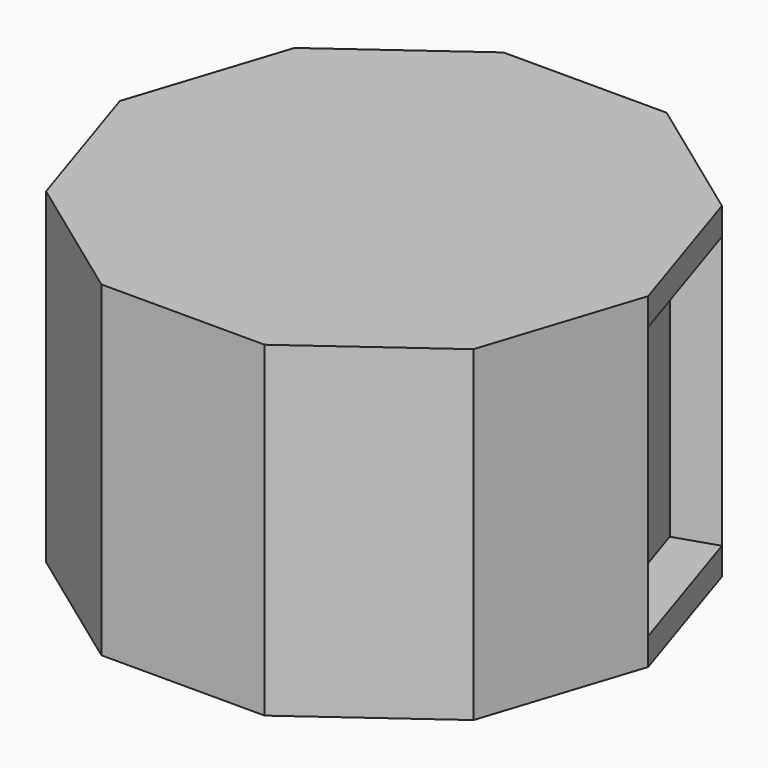
from build123d import *

# Parameters (mm, degrees)
F1_DEPTH = 76.2
F2_R     = 24.13
F3_DEPTH = 33.02
F4_W     = 38.1
F4_H     = 63.5
F5_DEPTH = 10.16


with BuildPart() as f1:
    # F0 (on Top) → F1 (new body)
    with BuildSketch(Plane.XY):
        Polygon((19.05, 58.6298713832), (-19.05, 58.6298713832), (-49.8735474857, 36.2352532708), (-61.6470949714, 0), (-49.8735474857, -36.2352532708), (-19.05, -58.6298713832), (19.05, -58.6298713832), (49.8735474857, -36.2352532708), (61.6470949714, 0), (49.8735474857, 36.2352532708), align=None)
    extrude(amount=F1_DEPTH)

    # F2 (on face) → F3 (cut)
    with BuildSketch(Plane(origin=(0, 0, 0), x_dir=(1, 0, 0), z_dir=(0, 0, -1))):
        Circle(F2_R)
    extrude(amount=-F3_DEPTH, mode=Mode.SUBTRACT)

    # F4 (on face) → F5 (cut)
    with BuildSketch(Plane(origin=(55.7603212285, 18.1176266354, 0), x_dir=(-0.3090169944, 0.9510565163, 0), z_dir=(0.9510565163, 0.3090169944, 0))):
        with Locations((0, 38.1)):
            Rectangle(F4_W, F4_H)
    extrude(amount=-F5_DEPTH, mode=Mode.SUBTRACT)


solid = f1.part
